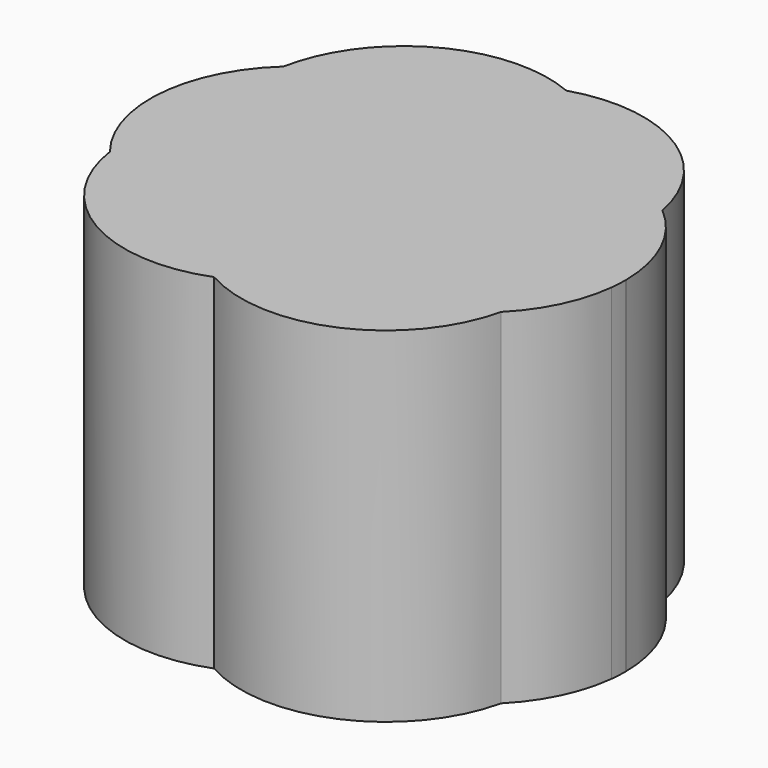
from build123d import *

# Parameters (mm, degrees)
F1_DEPTH = 5


with BuildPart() as f1:
    # F0 (on Top) → F1 (new body)
    with BuildSketch(Plane.XY):
        with BuildLine():
            ThreePointArc((-24.2055166316, 12.7700755201), (-24.2696493036, 12.2550568575), (-24.4581301771, 11.7714948835))
            ThreePointArc((-24.4581301771, 11.7714948835), (-24.1618816348, 11.1876524422), (-24.059825636, 10.5409533096))
            ThreePointArc((-24.059825636, 10.5409533096), (-24.0730018758, 10.3060776102), (-24.1123652494, 10.074149319))
            ThreePointArc((-24.1123652494, 10.074149319), (-23.7052429878, 10.6492604264), (-23.5112748984, 11.3266655504))
            ThreePointArc((-23.5112748984, 11.3266655504), (-23.5026114925, 11.4549716649), (-23.4986674085, 11.5835094331))
            ThreePointArc((-23.4986674085, 11.5835094331), (-23.6989325998, 12.4531743511), (-24.2422517743, 13.1611485676))
            ThreePointArc((-24.2422517743, 13.1611485676), (-24.214720587, 12.966472821), (-24.2055166316, 12.7700755201))
        make_face()
        with BuildLine():
            ThreePointArc((-28.4301242768, 14.8203377131), (-28.8311396591, 14.6305750844), (-29.183341045, 14.3608022616))
            ThreePointArc((-29.183341045, 14.3608022616), (-28.8212714421, 14.6144002572), (-28.4301242768, 14.8203377131))
        make_face()
        with BuildLine():
            ThreePointArc((-29.7996238256, 13.2344963051), (-29.0339295569, 13.6788545189), (-28.1531562944, 13.7681875762))
            ThreePointArc((-28.1531562944, 13.7681875762), (-27.6394070264, 14.3920300246), (-26.9281095858, 14.7756622206))
            ThreePointArc((-26.9281095858, 14.7756622206), (-27.6749841403, 14.9369466793), (-28.4301242768, 14.8203377131))
            ThreePointArc((-28.4301242768, 14.8203377131), (-28.8212714421, 14.6144002572), (-29.183341045, 14.3608022616))
            ThreePointArc((-29.183341045, 14.3608022616), (-29.5796675426, 13.8459016813), (-29.7996238256, 13.2344963051))
        make_face()
        with BuildLine():
            ThreePointArc((-23.4985106561, 11.5578513882), (-23.4985498446, 11.5706806501), (-23.4986674085, 11.5835094331))
            ThreePointArc((-23.4986674085, 11.5835094331), (-23.5026114925, 11.4549716649), (-23.5112748984, 11.3266655504))
            ThreePointArc((-23.5112748984, 11.3266655504), (-23.5017041449, 11.4420824184), (-23.4985106561, 11.5578513882))
        make_face()
        with BuildLine():
            ThreePointArc((-28.40482143, 12.7160443864), (-28.3479034627, 13.2585998615), (-28.1531562944, 13.7681875762))
            ThreePointArc((-28.1531562944, 13.7681875762), (-29.0339295569, 13.6788545189), (-29.7996238256, 13.2344963051))
            ThreePointArc((-29.7996238256, 13.2344963051), (-29.8198130362, 12.5665223302), (-29.6291199592, 11.926028001))
            ThreePointArc((-29.6291199592, 11.926028001), (-29.0876846229, 12.4306224757), (-28.40482143, 12.7160443864))
        make_face()
        with BuildLine():
            ThreePointArc((-28.1531562944, 13.7681875762), (-27.4897982959, 13.5801566584), (-26.9230939423, 13.1874154766))
            ThreePointArc((-26.9230939423, 13.1874154766), (-26.3955835278, 13.500703631), (-25.8000387495, 13.6481591234))
            ThreePointArc((-25.8000387495, 13.6481591234), (-26.2528678936, 14.3231729424), (-26.9281095858, 14.7756622206))
            ThreePointArc((-26.9281095858, 14.7756622206), (-27.6394070264, 14.3920300246), (-28.1531562944, 13.7681875762))
        make_face()
        with BuildLine():
            ThreePointArc((-26.9281095858, 14.7756622206), (-26.2528678936, 14.3231729424), (-25.8000387495, 13.6481591234))
            ThreePointArc((-25.8000387495, 13.6481591234), (-24.9718962461, 13.5621852878), (-24.2422517743, 13.1611485676))
            ThreePointArc((-24.2422517743, 13.1611485676), (-25.2235982118, 14.5699234394), (-26.9281095858, 14.7756622206))
        make_face()
        with BuildLine():
            ThreePointArc((-24.1123652494, 10.074149319), (-25.0717419882, 9.5249926203), (-26.1770822404, 9.5391253241))
            ThreePointArc((-26.1770822404, 9.5391253241), (-26.6157999478, 9.0436305274), (-27.1869340682, 8.7092742251))
            ThreePointArc((-27.1869340682, 8.7092742251), (-25.307768987, 8.6215785502), (-24.1123652494, 10.074149319))
        make_face()
        with BuildLine():
            ThreePointArc((-27.1869340682, 8.7092742251), (-27.6825346621, 9.0948007513), (-28.0420062254, 9.609612218))
            ThreePointArc((-28.0420062254, 9.609612218), (-29.1388930427, 9.7206321061), (-30.0283765953, 10.3720191763))
            ThreePointArc((-30.0283765953, 10.3720191763), (-29.0096897375, 8.8536155015), (-27.1869340682, 8.7092742251))
        make_face()
        with BuildLine():
            ThreePointArc((-29.6291199592, 11.926028001), (-29.8198130362, 12.5665223302), (-29.7996238256, 13.2344963051))
            ThreePointArc((-29.7996238256, 13.2344963051), (-30.4797234146, 11.8484670975), (-30.0283765953, 10.3720191763))
            ThreePointArc((-30.0283765953, 10.3720191763), (-29.9830134729, 11.188657471), (-29.6291199592, 11.926028001))
        make_face()
        with BuildLine():
            ThreePointArc((-26.1770822404, 9.5391253241), (-26.6511145003, 9.7407038578), (-27.0618137855, 10.0516163629))
            ThreePointArc((-27.0618137855, 10.0516163629), (-27.5231412696, 9.7668164785), (-28.0420062254, 9.609612218))
            ThreePointArc((-28.0420062254, 9.609612218), (-27.6825346621, 9.0948007513), (-27.1869340682, 8.7092742251))
            ThreePointArc((-27.1869340682, 8.7092742251), (-26.6157999478, 9.0436305274), (-26.1770822404, 9.5391253241))
        make_face()
        with BuildLine():
            ThreePointArc((-24.4581301771, 11.7714948835), (-25.0396352661, 11.0945026722), (-25.8497644493, 10.7201267528))
            ThreePointArc((-25.8497644493, 10.7201267528), (-25.8492430553, 10.6931134221), (-25.8490692477, 10.6660956191))
            ThreePointArc((-25.8490692477, 10.6660956191), (-25.9327393249, 10.079227966), (-26.1770822404, 9.5391253241))
            ThreePointArc((-26.1770822404, 9.5391253241), (-25.0717419882, 9.5249926203), (-24.1123652494, 10.074149319))
            ThreePointArc((-24.1123652494, 10.074149319), (-24.0730018758, 10.3060776102), (-24.059825636, 10.5409533096))
            ThreePointArc((-24.059825636, 10.5409533096), (-24.1618816348, 11.1876524422), (-24.4581301771, 11.7714948835))
        make_face()
        with BuildLine():
            ThreePointArc((-25.6374183243, 12.8378749862), (-25.6414269658, 12.7081821767), (-25.6534375861, 12.5789845024))
            ThreePointArc((-25.6534375861, 12.5789845024), (-24.9842755237, 12.2810917907), (-24.4581301771, 11.7714948835))
            ThreePointArc((-24.4581301771, 11.7714948835), (-24.2696493036, 12.2550568575), (-24.2055166316, 12.7700755201))
            ThreePointArc((-24.2055166316, 12.7700755201), (-24.214720587, 12.966472821), (-24.2422517743, 13.1611485676))
            ThreePointArc((-24.2422517743, 13.1611485676), (-24.9718962461, 13.5621852878), (-25.8000387495, 13.6481591234))
            ThreePointArc((-25.8000387495, 13.6481591234), (-25.6784747715, 13.2510958066), (-25.6374183243, 12.8378749862))
        make_face()
        with BuildLine():
            ThreePointArc((-25.6534375861, 12.5789845024), (-25.7899829829, 12.0520661094), (-26.0573676128, 11.5779426044))
            ThreePointArc((-26.0573676128, 11.5779426044), (-25.9079923025, 11.160064144), (-25.8497644493, 10.7201267528))
            ThreePointArc((-25.8497644493, 10.7201267528), (-25.0396352661, 11.0945026722), (-24.4581301771, 11.7714948835))
            ThreePointArc((-24.4581301771, 11.7714948835), (-24.9842755237, 12.2810917907), (-25.6534375861, 12.5789845024))
        make_face()
        with BuildLine():
            ThreePointArc((-30.0283765953, 10.3720191763), (-29.1388930427, 9.7206321061), (-28.0420062254, 9.609612218))
            ThreePointArc((-28.0420062254, 9.609612218), (-28.2302776929, 10.1899144513), (-28.2438063742, 10.7998437934))
            ThreePointArc((-28.2438063742, 10.7998437934), (-29.0620998904, 11.2083907891), (-29.6291199592, 11.926028001))
            ThreePointArc((-29.6291199592, 11.926028001), (-29.9830134729, 11.188657471), (-30.0283765953, 10.3720191763))
        make_face()
        with BuildLine():
            ThreePointArc((-28.0072120905, 11.5395339461), (-28.2949750863, 12.0977251226), (-28.40482143, 12.7160443864))
            ThreePointArc((-28.40482143, 12.7160443864), (-29.0876846229, 12.4306224757), (-29.6291199592, 11.926028001))
            ThreePointArc((-29.6291199592, 11.926028001), (-29.0620998904, 11.2083907891), (-28.2438063742, 10.7998437934))
            ThreePointArc((-28.2438063742, 10.7998437934), (-28.1599999738, 11.180720938), (-28.0072120905, 11.5395339461))
        make_face()
        with BuildLine():
            ThreePointArc((-27.6459710427, 12.0246553788), (-27.5365507708, 12.3665543708), (-27.3704976635, 12.6848216832))
            ThreePointArc((-27.3704976635, 12.6848216832), (-27.88570628, 12.7651394811), (-28.40482143, 12.7160443864))
            ThreePointArc((-28.40482143, 12.7160443864), (-28.2949750863, 12.0977251226), (-28.0072120905, 11.5395339461))
            ThreePointArc((-28.0072120905, 11.5395339461), (-27.8441487548, 11.7951684552), (-27.6459710427, 12.0246553788))
        make_face()
        with BuildLine():
            ThreePointArc((-26.9230939423, 13.1874154766), (-26.6891371956, 12.917832752), (-26.5042164823, 12.6125215428))
            ThreePointArc((-26.5042164823, 12.6125215428), (-26.0771095144, 12.6393236399), (-25.6534375861, 12.5789845024))
            ThreePointArc((-25.6534375861, 12.5789845024), (-25.6414269658, 12.7081821767), (-25.6374183243, 12.8378749862))
            ThreePointArc((-25.6374183243, 12.8378749862), (-25.6784747715, 13.2510958066), (-25.8000387495, 13.6481591234))
            ThreePointArc((-25.8000387495, 13.6481591234), (-26.3955835278, 13.500703631), (-26.9230939423, 13.1874154766))
        make_face()
        with BuildLine():
            ThreePointArc((-28.0420062254, 9.609612218), (-27.5231412696, 9.7668164785), (-27.0618137855, 10.0516163629))
            ThreePointArc((-27.0618137855, 10.0516163629), (-27.3340934469, 10.3755856074), (-27.535890231, 10.7475672511))
            ThreePointArc((-27.535890231, 10.7475672511), (-27.8920731254, 10.7435775163), (-28.2438063742, 10.7998437934))
            ThreePointArc((-28.2438063742, 10.7998437934), (-28.2302776929, 10.1899144513), (-28.0420062254, 9.609612218))
        make_face()
        with BuildLine():
            ThreePointArc((-27.3704976635, 12.6848216832), (-27.1670568065, 12.9541547127), (-26.9230939423, 13.1874154766))
            ThreePointArc((-26.9230939423, 13.1874154766), (-27.4897982959, 13.5801566584), (-28.1531562944, 13.7681875762))
            ThreePointArc((-28.1531562944, 13.7681875762), (-28.3479034627, 13.2585998615), (-28.40482143, 12.7160443864))
            ThreePointArc((-28.40482143, 12.7160443864), (-27.88570628, 12.7651394811), (-27.3704976635, 12.6848216832))
        make_face()
        with BuildLine():
            ThreePointArc((-25.8497644493, 10.7201267528), (-26.1927285037, 10.6731065555), (-26.5387574089, 10.6830683951))
            ThreePointArc((-26.5387574089, 10.6830683951), (-26.7691671787, 10.3415657778), (-27.0618137855, 10.0516163629))
            ThreePointArc((-27.0618137855, 10.0516163629), (-26.6511145003, 9.7407038578), (-26.1770822404, 9.5391253241))
            ThreePointArc((-26.1770822404, 9.5391253241), (-25.9327393249, 10.079227966), (-25.8490692477, 10.6660956191))
            ThreePointArc((-25.8490692477, 10.6660956191), (-25.8492430553, 10.6931134221), (-25.8497644493, 10.7201267528))
        make_face()
        with BuildLine():
            ThreePointArc((-26.0573676128, 11.5779426044), (-26.1838386402, 11.4249382697), (-26.3241915704, 11.2845591323))
            ThreePointArc((-26.3241915704, 11.2845591323), (-26.4084764266, 10.9756098157), (-26.5387574089, 10.6830683951))
            ThreePointArc((-26.5387574089, 10.6830683951), (-26.1927285037, 10.6731065555), (-25.8497644493, 10.7201267528))
            ThreePointArc((-25.8497644493, 10.7201267528), (-25.9079923025, 11.160064144), (-26.0573676128, 11.5779426044))
        make_face()
        with BuildLine():
            ThreePointArc((-27.0618137855, 10.0516163629), (-26.7691671787, 10.3415657778), (-26.5387574089, 10.6830683951))
            ThreePointArc((-26.5387574089, 10.6830683951), (-26.8321037727, 10.7371697222), (-27.1148253702, 10.8322882857))
            ThreePointArc((-27.1148253702, 10.8322882857), (-27.3231861568, 10.7791346647), (-27.535890231, 10.7475672511))
            ThreePointArc((-27.535890231, 10.7475672511), (-27.3340934469, 10.3755856074), (-27.0618137855, 10.0516163629))
        make_face()
        with BuildLine():
            ThreePointArc((-27.535890231, 10.7475672511), (-27.609784743, 10.9538840486), (-27.6617755135, 11.1667783407))
            ThreePointArc((-27.6617755135, 11.1667783407), (-27.8458113673, 11.3426680354), (-28.0072120905, 11.5395339461))
            ThreePointArc((-28.0072120905, 11.5395339461), (-28.1599999738, 11.180720938), (-28.2438063742, 10.7998437934))
            ThreePointArc((-28.2438063742, 10.7998437934), (-27.8920731254, 10.7435775163), (-27.535890231, 10.7475672511))
        make_face()
        with BuildLine():
            ThreePointArc((-27.535890231, 10.7475672511), (-27.3231861568, 10.7791346647), (-27.1148253702, 10.8322882857))
            ThreePointArc((-27.1148253702, 10.8322882857), (-27.4011405082, 10.9785375436), (-27.6617755135, 11.1667783407))
            ThreePointArc((-27.6617755135, 11.1667783407), (-27.609784743, 10.9538840486), (-27.535890231, 10.7475672511))
        make_face()
        with BuildLine():
            ThreePointArc((-26.5387574089, 10.6830683951), (-26.4084764266, 10.9756098157), (-26.3241915704, 11.2845591323))
            ThreePointArc((-26.3241915704, 11.2845591323), (-26.6946922334, 11.0150413955), (-27.1148253702, 10.8322882857))
            ThreePointArc((-27.1148253702, 10.8322882857), (-26.8321037727, 10.7371697222), (-26.5387574089, 10.6830683951))
        make_face()
        with BuildLine():
            ThreePointArc((-26.3070897241, 11.9752568941), (-26.2915766223, 11.8285822322), (-26.2863970717, 11.6811804512))
            ThreePointArc((-26.2863970717, 11.6811804512), (-26.2958670489, 11.4819714562), (-26.3241915704, 11.2845591323))
            ThreePointArc((-26.3241915704, 11.2845591323), (-26.1838386402, 11.4249382697), (-26.0573676128, 11.5779426044))
            ThreePointArc((-26.0573676128, 11.5779426044), (-26.1710955995, 11.7835971655), (-26.3070897241, 11.9752568941))
        make_face()
        with BuildLine():
            ThreePointArc((-26.5042164823, 12.6125215428), (-26.3801884019, 12.3017662818), (-26.3070897241, 11.9752568941))
            ThreePointArc((-26.3070897241, 11.9752568941), (-26.1710955995, 11.7835971655), (-26.0573676128, 11.5779426044))
            ThreePointArc((-26.0573676128, 11.5779426044), (-25.7899829829, 12.0520661094), (-25.6534375861, 12.5789845024))
            ThreePointArc((-25.6534375861, 12.5789845024), (-26.0771095144, 12.6393236399), (-26.5042164823, 12.6125215428))
        make_face()
        with BuildLine():
            ThreePointArc((-26.9219608155, 12.4977747036), (-26.58919284, 12.2663256512), (-26.3070897241, 11.9752568941))
            ThreePointArc((-26.3070897241, 11.9752568941), (-26.3801884019, 12.3017662818), (-26.5042164823, 12.6125215428))
            ThreePointArc((-26.5042164823, 12.6125215428), (-26.7160555082, 12.5659491933), (-26.9219608155, 12.4977747036))
        make_face()
        with BuildLine():
            ThreePointArc((-26.9219608155, 12.4977747036), (-26.7160555082, 12.5659491933), (-26.5042164823, 12.6125215428))
            ThreePointArc((-26.5042164823, 12.6125215428), (-26.6891371956, 12.917832752), (-26.9230939423, 13.1874154766))
            ThreePointArc((-26.9230939423, 13.1874154766), (-27.1670568065, 12.9541547127), (-27.3704976635, 12.6848216832))
            ThreePointArc((-27.3704976635, 12.6848216832), (-27.1408002814, 12.6043167825), (-26.9219608155, 12.4977747036))
        make_face()
        with BuildLine():
            ThreePointArc((-27.6459710427, 12.0246553788), (-27.3085866522, 12.2988919113), (-26.9219608155, 12.4977747036))
            ThreePointArc((-26.9219608155, 12.4977747036), (-27.1408002814, 12.6043167825), (-27.3704976635, 12.6848216832))
            ThreePointArc((-27.3704976635, 12.6848216832), (-27.5365507708, 12.3665543708), (-27.6459710427, 12.0246553788))
        make_face()
        with BuildLine():
            ThreePointArc((-27.6617755135, 11.1667783407), (-27.6981543785, 11.5965326402), (-27.6459710427, 12.0246553788))
            ThreePointArc((-27.6459710427, 12.0246553788), (-27.8441487548, 11.7951684552), (-28.0072120905, 11.5395339461))
            ThreePointArc((-28.0072120905, 11.5395339461), (-27.8458113673, 11.3426680354), (-27.6617755135, 11.1667783407))
        make_face()
        with BuildLine():
            ThreePointArc((-26.3241915704, 11.2845591323), (-26.2958670489, 11.4819714562), (-26.2863970717, 11.6811804512))
            ThreePointArc((-26.2863970717, 11.6811804512), (-26.2915766223, 11.8285822322), (-26.3070897241, 11.9752568941))
            ThreePointArc((-26.3070897241, 11.9752568941), (-26.58919284, 12.2663256512), (-26.9219608155, 12.4977747036))
            ThreePointArc((-26.9219608155, 12.4977747036), (-27.3085866522, 12.2988919113), (-27.6459710427, 12.0246553788))
            ThreePointArc((-27.6459710427, 12.0246553788), (-27.6981543785, 11.5965326402), (-27.6617755135, 11.1667783407))
            ThreePointArc((-27.6617755135, 11.1667783407), (-27.4011405082, 10.9785375436), (-27.1148253702, 10.8322882857))
            ThreePointArc((-27.1148253702, 10.8322882857), (-26.6946922334, 11.0150413955), (-26.3241915704, 11.2845591323))
        make_face()
    extrude(amount=F1_DEPTH)


solid = f1.part
